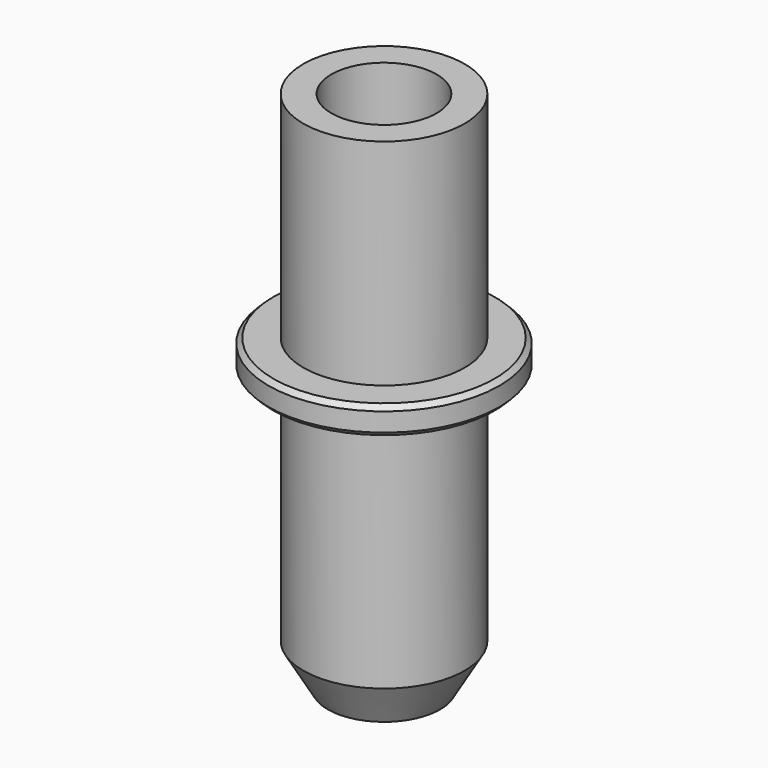
from build123d import *


with BuildPart() as part:
    # Sketch → Revolution (revolve)
    with BuildSketch(Plane.XZ):
        Polygon((-1.684593, 0), (-3.75, 3.540698), (-3.75, 37.3), (-5.75, 37.3), (-5.75, 22), (-7.885, 22), (-8.22, 21.665), (-8.22, 20.335), (-7.885, 20), (-5.75, 20), (-5.75, 3), (-4, 0), align=None)
    revolve(axis=Axis((0, 0, 0), (0, 0, 1)))


solid = part.part
